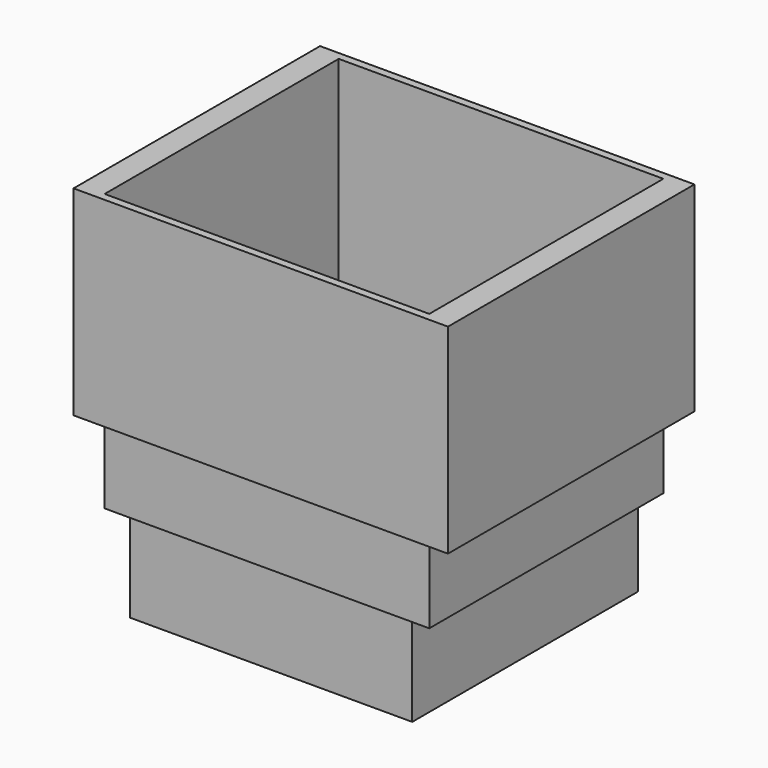
from build123d import *

# Parameters (mm, degrees)
F0_W     = 68.6
F0_H     = 68.6
F1_DEPTH = 3
F0_W_2   = 72.6
F0_H_2   = 72.6
F2_DEPTH = 23.5
F3_W     = 83.5
F3_H     = 75.25
F3_W_2   = 72.6
F3_H_2   = 72.6
F4_DEPTH = 19.8
F5_W     = 96.3
F5_H     = 79.25
F5_W_2   = 83.5
F5_H_2   = 75.25
F6_DEPTH = 51.4


with BuildPart() as f1:
    # F0 (on Top) → F1 (new body)
    with BuildSketch(Plane.XY):
        with Locations((34.3, -34.3)):
            Rectangle(F0_W, F0_H)
    extrude(amount=F1_DEPTH)

    # F0 (on Top) → F2 (join)
    with BuildSketch(Plane.XY):
        with Locations((34.3, -34.3)):
            Rectangle(F0_W_2, F0_H_2)
        with Locations((34.3, -34.3)):
            Rectangle(F0_W, F0_H, mode=Mode.SUBTRACT)
    extrude(amount=F2_DEPTH)


with BuildPart() as f4:
    # F3 (on face) → F4 (new body)
    with BuildSketch(Plane.XY.offset(23.5)):
        with Locations((34.3, -34.3)):
            Rectangle(F3_W, F3_H)
        with Locations((34.3, -34.3)):
            Rectangle(F3_W_2, F3_H_2, mode=Mode.SUBTRACT)
    extrude(amount=F4_DEPTH)


with BuildPart() as f6:
    # F5 (on face) → F6 (new body)
    with BuildSketch(Plane.XY.offset(43.3)):
        with Locations((34.3, -34.3)):
            Rectangle(F5_W, F5_H)
        with Locations((34.3, -34.3)):
            Rectangle(F5_W_2, F5_H_2, mode=Mode.SUBTRACT)
    extrude(amount=F6_DEPTH)


solid = Compound([f1.part, f4.part, f6.part])
